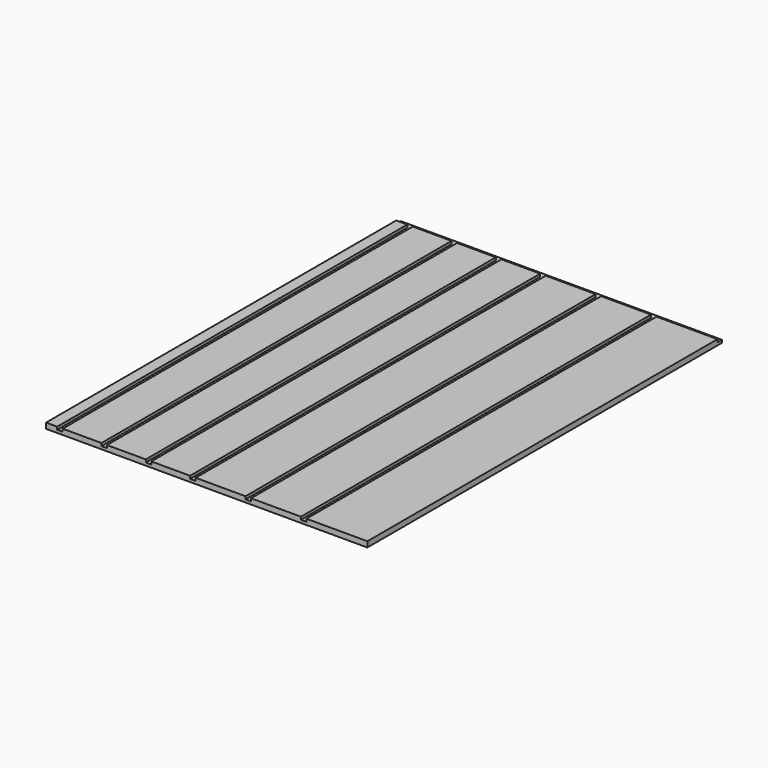
from build123d import *

# Parameters (mm, degrees)
F0_W     = 184.15
F0_H     = 254
F1_DEPTH = 3.175
F2_W     = 3.175
F2_H     = 250.825
F2_H_2   = 3.175
F3_DEPTH = 1.5875
F2_W_2   = 6.35
F2_W_3   = 22.225
F2_W_4   = 28.575
F2_W_5   = 34.925
F4_DEPTH = 1.5875


with BuildPart() as f1:
    # F0 (on Top) → F1 (new body)
    with BuildSketch(Plane.XY):
        with Locations((92.075, 127)):
            Rectangle(F0_W, F0_H)
    extrude(amount=F1_DEPTH)

    # F2 (on face) → F3 (cut)
    with BuildSketch(Plane.XY.offset(3.175)):
        with Locations((7.9375, 125.4125)):
            Rectangle(F2_W, F2_H)
        with Locations((33.3375, 125.4125)):
            Rectangle(F2_W, F2_H)
        with Locations((58.7375, 125.4125)):
            Rectangle(F2_W, F2_H)
        with Locations((84.1375, 125.4125)):
            Rectangle(F2_W, F2_H)
        with Locations((115.8875, 252.4125)):
            Rectangle(F2_W, F2_H_2)
        with Locations((147.6375, 252.4125)):
            Rectangle(F2_W, F2_H_2)
        with Locations((115.8875, 125.4125)):
            Rectangle(F2_W, F2_H)
        with Locations((147.6375, 125.4125)):
            Rectangle(F2_W, F2_H)
        with Locations((84.1375, 252.4125)):
            Rectangle(F2_W, F2_H_2)
        with Locations((58.7375, 252.4125)):
            Rectangle(F2_W, F2_H_2)
        with Locations((33.3375, 252.4125)):
            Rectangle(F2_W, F2_H_2)
        with Locations((7.9375, 252.4125)):
            Rectangle(F2_W, F2_H_2)
    extrude(amount=-F3_DEPTH, mode=Mode.SUBTRACT)

    # F2 (on face) → F4 (cut)
    with BuildSketch(Plane.XY.offset(3.175)):
        with Locations((3.175, 252.4125)):
            Rectangle(F2_W_2, F2_H_2)
        with Locations((20.6375, 252.4125)):
            Rectangle(F2_W_3, F2_H_2)
        with Locations((33.3375, 252.4125)):
            Rectangle(F2_W, F2_H_2)
        with Locations((46.0375, 252.4125)):
            Rectangle(F2_W_3, F2_H_2)
        with Locations((7.9375, 252.4125)):
            Rectangle(F2_W, F2_H_2)
        with Locations((58.7375, 252.4125)):
            Rectangle(F2_W, F2_H_2)
        with Locations((71.4375, 252.4125)):
            Rectangle(F2_W_3, F2_H_2)
        with Locations((100.0125, 252.4125)):
            Rectangle(F2_W_4, F2_H_2)
        with Locations((84.1375, 252.4125)):
            Rectangle(F2_W, F2_H_2)
        with Locations((115.8875, 252.4125)):
            Rectangle(F2_W, F2_H_2)
        with Locations((131.7625, 252.4125)):
            Rectangle(F2_W_4, F2_H_2)
        with Locations((147.6375, 252.4125)):
            Rectangle(F2_W, F2_H_2)
        with Locations((166.6875, 252.4125)):
            Rectangle(F2_W_5, F2_H_2)
    extrude(amount=-F4_DEPTH, mode=Mode.SUBTRACT)


solid = f1.part
